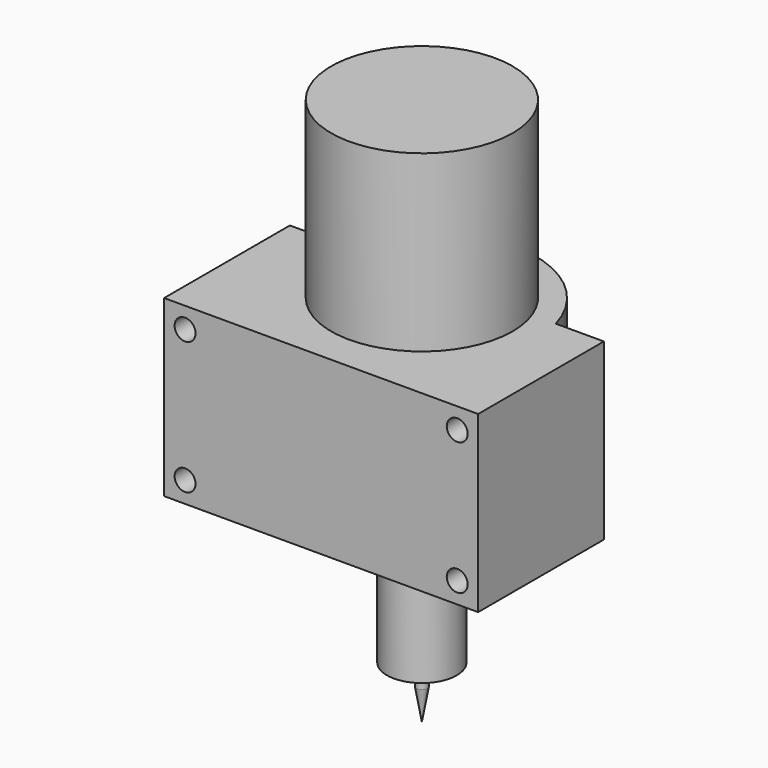
from build123d import *

# Parameters (mm, degrees)
F0_R     = 26
F1_DEPTH = 105
F2_R     = 10
F3_DEPTH = 37
F7_START = -5
F7_DEPTH = 50
F8_R     = 3
F9_DEPTH = 45.0490971485


with BuildPart() as f1:
    # F0 (on Top) → F1 (new body)
    with BuildSketch(Plane.XY):
        Circle(F0_R)
    extrude(amount=F1_DEPTH)

    # F2 (on face) → F3 (join)
    with BuildSketch(Plane(origin=(0, 0, 0), x_dir=(1, 0, 0), z_dir=(0, 0, -1))):
        Circle(F2_R)
    extrude(amount=F3_DEPTH)

    # F4 (on Right) → F5 (revolve)
    with BuildSketch(Plane.YZ):
        Polygon((0, -52), (0, -37), (-1.58, -37), (-1.58, -43.039374725), align=None)
    revolve(axis=Axis((0, 0, -44.5), (0, 0, -1)))

    # F6 (on face) → F7 (join)
    with BuildSketch(Plane(origin=(0, 0, 0), x_dir=(1, 0, 0), z_dir=(0, 0, -1)).offset(F7_START)):
        with BuildLine():
            Line((-45, -8.9544598013), (-31.2420813914, -8.9544598013))
            ThreePointArc((-31.2420813914, -8.9544598013), (0, -32.5), (31.2420813914, -8.9544598013))
            Line((31.2420813914, -8.9544598013), (45, -8.9544598013))
            Line((45, -8.9544598013), (45, 36.0936373472))
            Line((45, 36.0936373472), (-45, 36.0936373472))
            Line((-45, 36.0936373472), (-45, -8.9544598013))
        make_face()
    extrude(amount=-F7_DEPTH)

    # F8 (on face) → F9 (cut, through all)
    with BuildSketch(Plane(origin=(0, 8.9544598013, 0), x_dir=(-1, 0, 0), z_dir=(0, 1, 0))):
        with Locations((-39, 49)):
            Circle(F8_R)
        with Locations((-39, 11)):
            Circle(F8_R)
        with Locations((39, 49)):
            Circle(F8_R)
        with Locations((39, 11)):
            Circle(F8_R)
    extrude(amount=-F9_DEPTH, mode=Mode.SUBTRACT)


solid = f1.part
